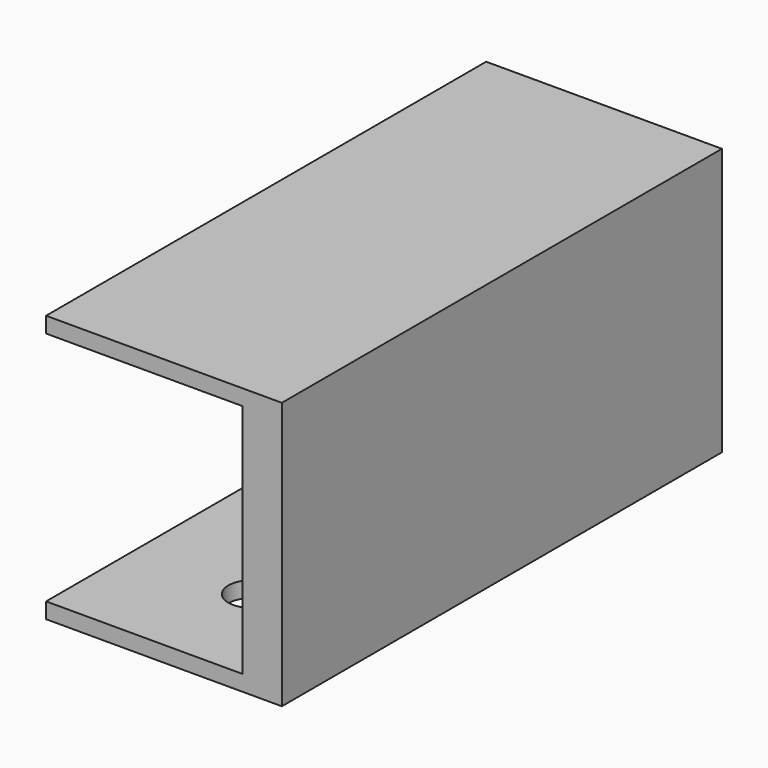
from build123d import *

# Parameters (mm, degrees)
F0_W     = 30
F0_H     = 70
F1_DEPTH = 2
F2_W     = 5
F2_H     = 70
F3_DEPTH = 30
F4_W     = 30
F4_H     = 70
F5_DEPTH = 2
F7_DEPTH = 5


with BuildPart() as f1:
    # F0 (on Top) → F1 (new body)
    with BuildSketch(Plane.XY):
        with Locations((15, 35)):
            Rectangle(F0_W, F0_H)
    extrude(amount=F1_DEPTH)

    # F2 (on face) → F3 (join)
    with BuildSketch(Plane.XY.offset(2)):
        with Locations((27.5, 35)):
            Rectangle(F2_W, F2_H)
    extrude(amount=F3_DEPTH)

    # F4 (on face) → F5 (join)
    with BuildSketch(Plane.XY.offset(32)):
        with Locations((15, 35)):
            Rectangle(F4_W, F4_H)
    extrude(amount=F5_DEPTH)

    # F6 (on face) → F7 (cut)
    with BuildSketch(Plane(origin=(0, 0, 0), x_dir=(1, 0, 0), z_dir=(0, 0, -1))):
        with BuildLine():
            ThreePointArc((18, -14), (17.12132, -11.87868), (15, -11))
            Line((15, -11), (15, -14))
            Line((15, -14), (15, -17))
            ThreePointArc((15, -17), (17.12132, -16.12132), (18, -14))
        make_face()
        with BuildLine():
            ThreePointArc((18, -56), (17.12132, -53.87868), (15, -53))
            ThreePointArc((15, -53), (12.87868, -58.12132), (18, -56))
        make_face()
        with BuildLine():
            Line((15, -14), (15, -11))
            ThreePointArc((15, -11), (12, -14), (15, -17))
            Line((15, -17), (15, -14))
        make_face()
    extrude(amount=-F7_DEPTH, mode=Mode.SUBTRACT)


solid = f1.part
